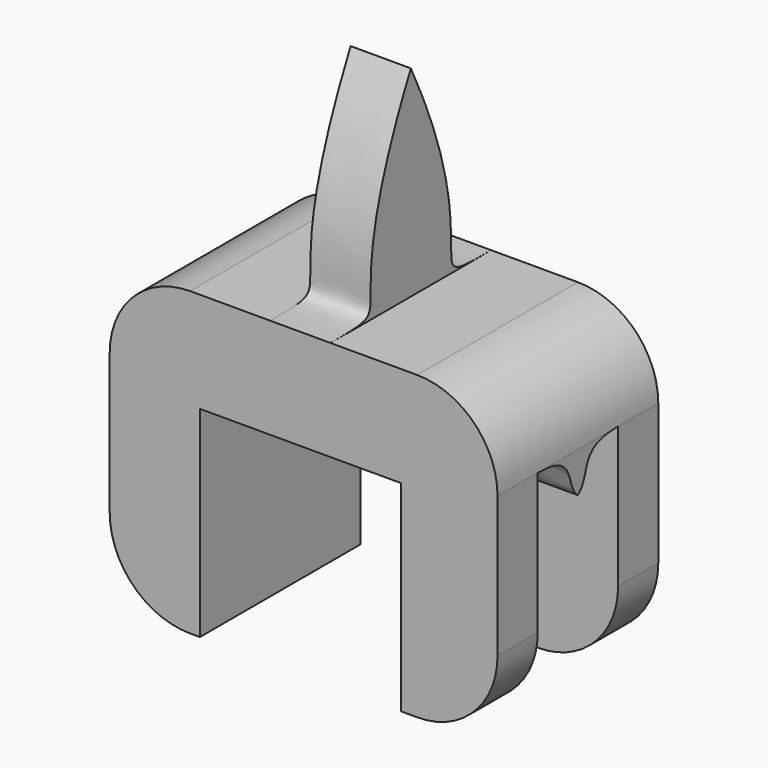
from build123d import *

# Parameters (mm, degrees)
F0_W      = 12.7
F0_H      = 6.35
F1_DEPTH  = 12.7
F2_R      = 5.08
F3_W      = 6.35
F3_H      = 8.89
F4_DEPTH  = 12.7
F6_DEPTH  = 5.715
F7_W      = 3.81
F7_H      = 12.7
F8_DEPTH  = 12.7
F10_DEPTH = 25.4


with BuildPart() as f1:
    # F0 (on Front) → F1 (new body)
    with BuildSketch(Plane.XZ):
        Polygon((-6.35, -3.175), (-6.35, 3.175), (-12.0512209833, 3.175), (-12.0512209833, -15.875), (-6.35, -15.875), align=None)
        Rectangle(F0_W, F0_H)
        Polygon((12.4626047909, 3.175), (6.35, 3.175), (6.35, -3.175), (6.35, -15.875), (12.4626047909, -15.875), align=None)
    extrude(amount=F1_DEPTH)

    # F2
    f2_edges = [f1.edges().sort_by_distance(p)[0] for p in [
        (-12.051221, -6.35, 3.175),
        (12.462605, -6.35, 3.175),
        (-12.051221, -6.35, -15.875),
        (12.462605, -6.35, -15.875),
    ]]
    fillet(f2_edges, radius=F2_R)

    # F3 (on face) → F4 (cut)
    with BuildSketch(Plane.YZ.offset(12.4626047909)):
        with Locations((-6.35, -6.35)):
            Rectangle(F3_W, F3_H)
        with Locations((-6.35, -15.24)):
            Rectangle(F3_W, F3_H)
    extrude(amount=-F4_DEPTH, mode=Mode.SUBTRACT)

    # F5 (on face) → F6 (join)
    with BuildSketch(Plane.YZ.offset(12.4626047909)):
        with BuildLine():
            Line((-6.35, -4.445), (-6.35, -1.905))
            Line((-6.35, -1.905), (-9.525, -1.905))
            add(Edge.make_bspline(
                [(-9.525, -1.905), (-6.35, -1.905), (-7.4083333333, -3.5983333333), (-6.35, -4.445)],
                knots=[0, 0, 0, 0, 4.0659838908, 4.0659838908, 4.0659838908, 4.0659838908], degree=3))
        make_face()
        with BuildLine():
            add(Edge.make_bspline(
                [(-3.175, -1.905), (-6.35, -1.905), (-5.2916666667, -3.5983333333), (-6.35, -4.445)],
                knots=[0, 0, 0, 0, 4.0659838908, 4.0659838908, 4.0659838908, 4.0659838908], degree=3))
            Line((-3.175, -1.905), (-6.35, -1.905))
            Line((-6.35, -1.905), (-6.35, -4.445))
        make_face()
    extrude(amount=-F6_DEPTH)

    # F7 (on face) → F8 (join)
    with BuildSketch(Plane.XY.offset(3.175)):
        with Locations((0, -6.35)):
            Rectangle(F7_W, F7_H)
    extrude(amount=F8_DEPTH)

    # F9 (on face) → F10 (cut)
    with BuildSketch(Plane.YZ.offset(1.905)):
        with BuildLine():
            Line((-12.7, 15.875), (-12.7, 3.175))
            add(Edge.make_bspline(
                [(-12.7, 3.175), (-6.35, 3.175), (-12.7, 3.175), (-6.35, 15.875)],
                knots=[0, 0, 0, 0, 14.1990316571, 14.1990316571, 14.1990316571, 14.1990316571], degree=3))
            Line((-6.35, 15.875), (-12.7, 15.875))
        make_face()
        with BuildLine():
            Line((0, 15.875), (-6.35, 15.875))
            add(Edge.make_bspline(
                [(-6.35, 15.875), (0, 3.175), (-6.35, 3.175), (0, 3.175)],
                knots=[0, 0, 0, 0, 14.1990316571, 14.1990316571, 14.1990316571, 14.1990316571], degree=3))
            Line((0, 3.175), (0, 15.875))
        make_face()
    extrude(amount=-F10_DEPTH, mode=Mode.SUBTRACT)


solid = f1.part
